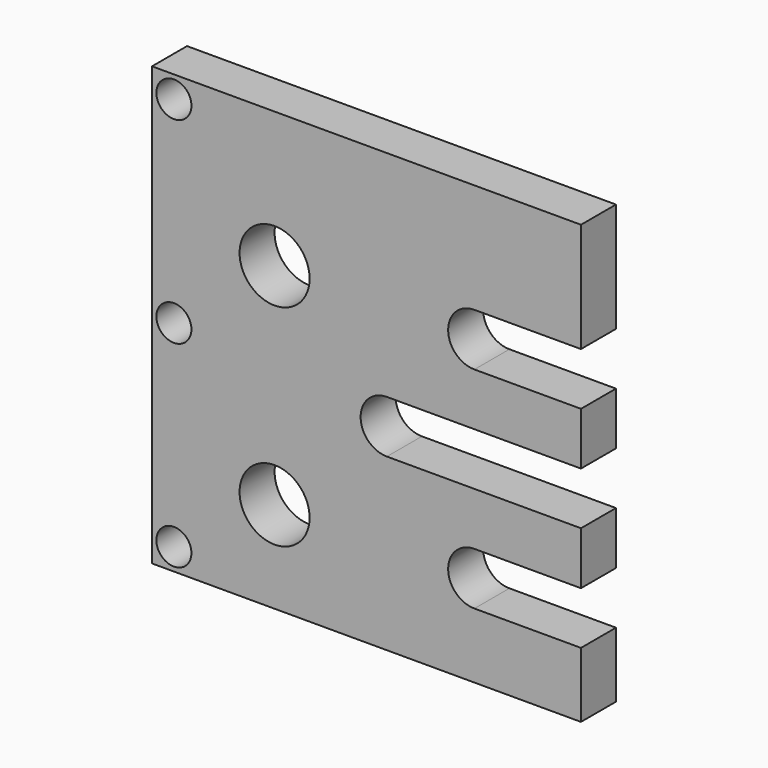
from build123d import *

# Parameters (mm, degrees)
F0_R     = 2
F0_R_2   = 4
F1_DEPTH = 5


with BuildPart() as f1:
    # F0 (on Front) → F1 (new body)
    with BuildSketch(Plane.XZ):
        with BuildLine():
            Line((-9.071991, 28.153977), (-9.071683, 40.657913))
            Line((-9.071683, 40.657913), (-58.072915, 40.657913))
            Line((-58.072915, 40.657913), (-58.072915, -9.342087))
            Line((-58.072915, -9.342087), (-9.072915, -9.342087))
            Line((-9.072915, -9.342087), (-9.072732, -1.896336))
            Line((-9.072732, -1.896336), (-21.245276, -1.896336))
            ThreePointArc((-21.245276, -1.896336), (-24.245276, 1.103664), (-21.245276, 4.103664))
            Line((-21.245276, 4.103664), (-9.082483, 4.103664))
            Line((-9.082483, 4.103664), (-9.072584, 4.103664))
            Line((-9.072584, 4.103664), (-9.072436, 10.135129))
            Line((-9.072436, 10.135129), (-31.243636, 10.135129))
            ThreePointArc((-31.243636, 10.135129), (-34.243636, 13.135129), (-31.243636, 16.135129))
            Line((-31.243636, 16.135129), (-9.072288, 16.135129))
            Line((-9.072288, 16.135129), (-9.07214, 22.145314))
            Line((-9.07214, 22.145314), (-21.245276, 22.145314))
            ThreePointArc((-21.245276, 22.145314), (-24.245275, 25.144246), (-21.24741, 28.145313))
            Line((-21.24741, 28.145313), (-9.071991, 28.153977))
        make_face()
        with Locations((-55.572915, -6.842087)):
            Circle(F0_R, mode=Mode.SUBTRACT)
        with Locations((-44.072376, 1.109681)):
            Circle(F0_R_2, mode=Mode.SUBTRACT)
        with Locations((-55.572915, 15.657913)):
            Circle(F0_R, mode=Mode.SUBTRACT)
        with Locations((-44.072434, 25.151316)):
            Circle(F0_R_2, mode=Mode.SUBTRACT)
        with Locations((-55.572915, 38.157913)):
            Circle(F0_R, mode=Mode.SUBTRACT)
    extrude(amount=F1_DEPTH)


solid = f1.part
